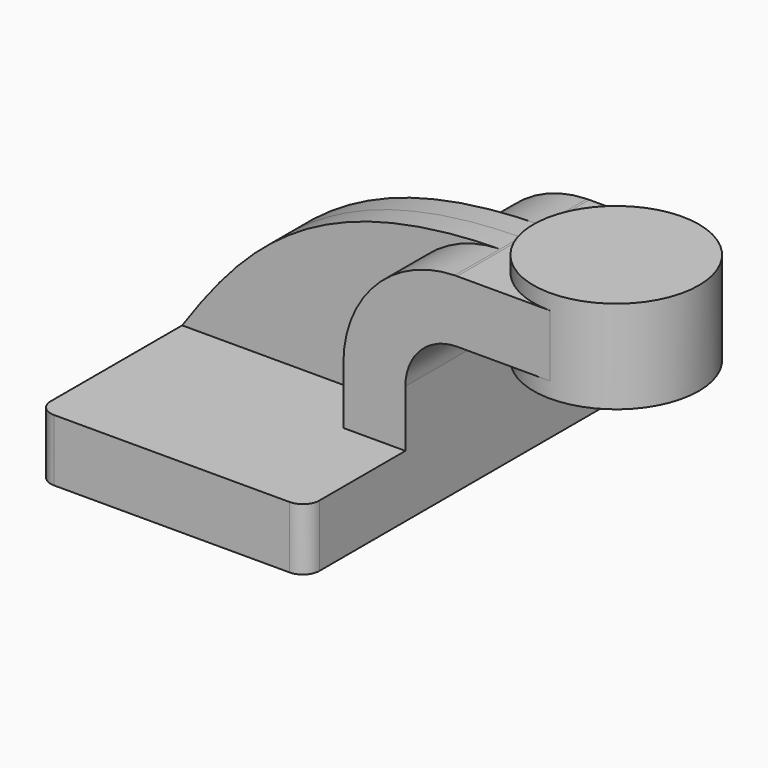
from build123d import *

# Parameters (mm, degrees)
F1_DEPTH = 63.5
F2_DEPTH = 25.4
F3_DEPTH = 7.9375
F4_DEPTH = 25.4
F6_R     = 5.08
F7_R     = 5.08


with BuildPart() as f1:
    # F0 (on Front) → F1 (new body, symmetric)
    with BuildSketch(Plane.XZ):
        Polygon((22.225, 9.525), (-41.275, 9.525), (-41.275, -9.525), (41.275, -9.525), (41.275, 9.525), align=None)
    extrude(amount=F1_DEPTH, both=True)

    # F0 (on Front) → F2 (join, symmetric)
    with BuildSketch(Plane.XZ):
        with BuildLine():
            Line((22.225, 27.0002), (22.225, 9.525))
            Line((22.225, 9.525), (41.275, 9.525))
            Line((41.275, 9.525), (41.275, 27.0002))
            ThreePointArc((41.275, 27.0002), (45.92468, 38.22552), (57.15, 42.8752))
            Line((57.15, 42.8752), (60.325, 42.8752))
            Line((60.325, 42.8752), (60.325, 61.9252))
            Line((60.325, 61.9252), (57.15, 61.9252))
            add(Edge.make_bspline(
                [(56.406163, 61.917278), (56.653442, 61.920357), (56.901387, 61.922998), (57.15, 61.9252)],
                knots=[111.019471, 111.019471, 111.019471, 111.019471, 111.504536, 111.504536, 111.504536, 111.504536], degree=3))
            ThreePointArc((56.406163, 61.917278), (32.192695, 51.431503), (22.225, 27.0002))
        make_face()
    extrude(amount=F2_DEPTH, both=True)

    # F0 (on Front) → F3 (join, symmetric)
    with BuildSketch(Plane.XZ):
        with BuildLine():
            add(Edge.make_bspline(
                [(-41.275, 9.525), (-21.931022, 37.55873), (-0.190027, 61.212503), (56.406163, 61.917278)],
                knots=[0, 0, 0, 0, 111.019471, 111.019471, 111.019471, 111.019471], degree=3))
            Line((-41.275, 9.525), (22.225, 9.525))
            Line((22.225, 9.525), (22.225, 27.0002))
            ThreePointArc((22.225, 27.0002), (32.192695, 51.431503), (56.406163, 61.917278))
        make_face()
    extrude(amount=F3_DEPTH, both=True)

    # F0 (on Front) → F4 (join, symmetric)
    with BuildSketch(Plane.XZ):
        Polygon((81.447226, 61.9252), (60.325, 61.9252), (60.325, 42.8752), (81.447226, 42.8752), (85.725, 42.8752), (85.725, 61.9252), align=None)
    extrude(amount=F4_DEPTH, both=True)

    # F0 (on Front) → F5 (revolve)
    with BuildSketch(Plane.XZ):
        Polygon((111.125, 66.675), (85.725, 66.675), (85.725, 61.9252), (85.725, 42.8752), (85.725, 38.1), (111.125, 38.1), align=None)
    revolve(axis=Axis((85.725, 0, 52.3875), (0, 0, 1)))

    # F6
    f6_edges = [f1.edges().sort_by_distance(p)[0] for p in [
        (-41.275, -63.5, 0),
        (41.275, -63.5, 0),
        (41.275, 63.5, 0),
    ]]
    fillet(f6_edges, radius=F6_R)

    # F7
    f7_edges = [f1.edges().sort_by_distance(p)[0] for p in [
        (-41.275, 63.5, 0),
    ]]
    fillet(f7_edges, radius=F7_R)


solid = f1.part
